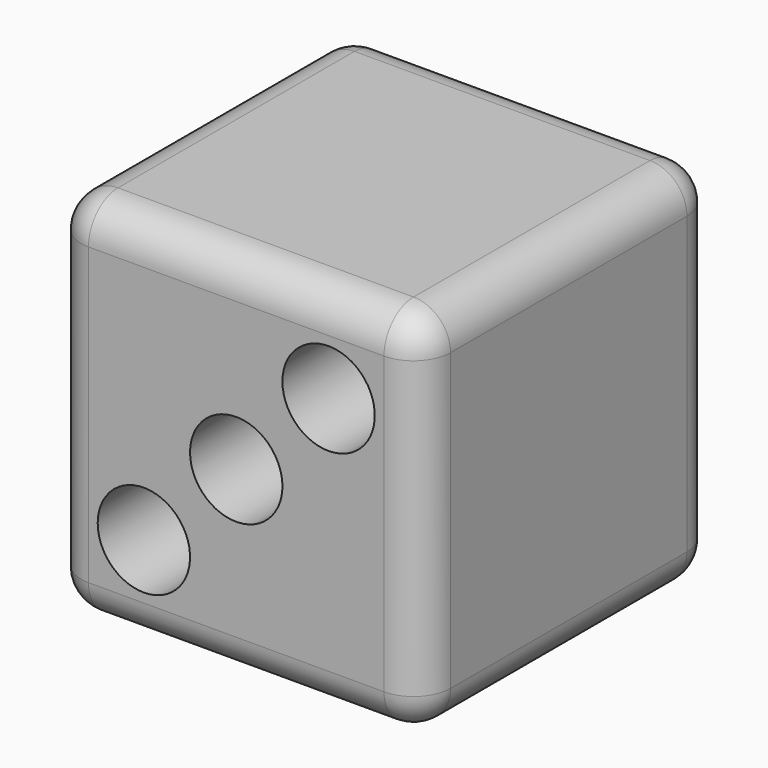
from build123d import *

# Parameters (mm, degrees)
F0_W     = 50.8
F0_H     = 50.8
F1_DEPTH = 50.8
F2_R     = 6.35
F3_DEPTH = 50.801
F4_R     = 5.08
F5_R     = 5.08
F6_R     = 5.08
F7_R     = 5.08
F8_R     = 5.08


with BuildPart() as f1:
    # F0 (on Front) → F1 (new body)
    with BuildSketch(Plane.XZ):
        Rectangle(F0_W, F0_H)
        Rectangle(F0_W, F0_H)
    extrude(amount=F1_DEPTH)

    # F2 (on face) → F3 (cut, through all)
    with BuildSketch(Plane(origin=(0, 0, 0), x_dir=(-1, 0, 0), z_dir=(0, 1, 0))):
        Circle(F2_R)
        with Locations((12.7, -12.7)):
            Circle(F2_R)
        with Locations((-12.7, 12.7)):
            Circle(F2_R)
    extrude(amount=-F3_DEPTH, mode=Mode.SUBTRACT)

    # F4
    f4_edges = [f1.edges().sort_by_distance(p)[0] for p in [
        (-25.4, -25.4, 25.4),
    ]]
    fillet(f4_edges, radius=F4_R)

    # F5
    f5_edges = [f1.edges().sort_by_distance(p)[0] for p in [
        (-25.4, 0, -2.54),
    ]]
    fillet(f5_edges, radius=F5_R)

    # F6
    f6_edges = [f1.edges().sort_by_distance(p)[0] for p in [
        (-25.4, -50.8, -2.54),
    ]]
    fillet(f6_edges, radius=F6_R)

    # F7
    f7_edges = [f1.edges().sort_by_distance(p)[0] for p in [
        (-25.4, -25.4, -25.4),
    ]]
    fillet(f7_edges, radius=F7_R)

    # F8
    f8_edges = [f1.edges().sort_by_distance(p)[0] for p in [
        (25.4, 0, 0),
    ]]
    fillet(f8_edges, radius=F8_R)


solid = f1.part
